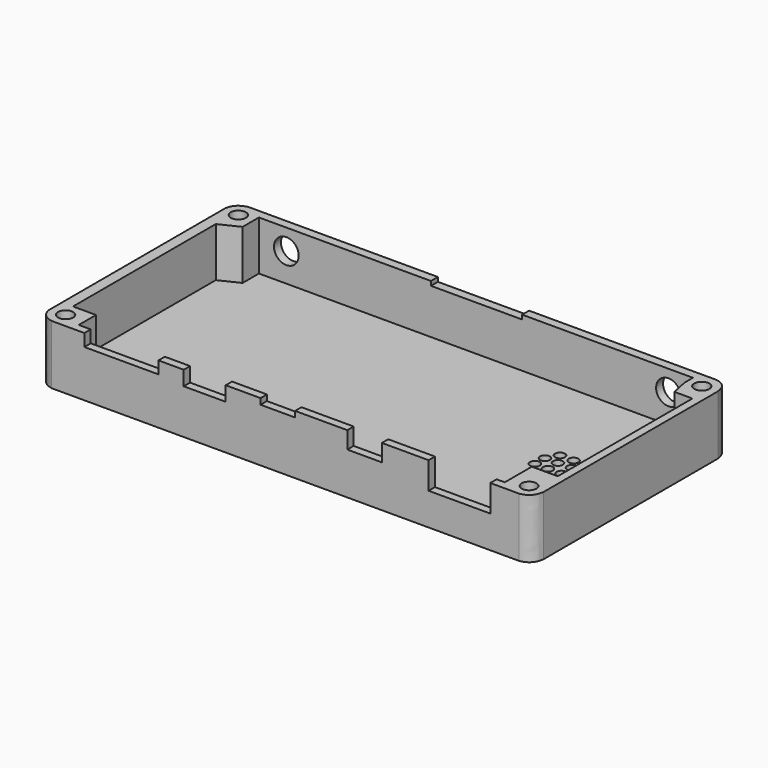
from build123d import *

# Parameters (mm, degrees)
SKETCH008_R     = 1.539175
SKETCH008_R_2   = 1.523329
SKETCH008_R_3   = 1.533201
SKETCH008_R_4   = 1.490189
PAD006_DEPTH    = 12
POCKET002_DEPTH = 10
SKETCH010_W     = 12.5
SKETCH010_H     = 5.5
SKETCH010_W_2   = 7
SKETCH010_H_2   = 3.5
SKETCH010_H_3   = 1.2
SKETCH010_W_3   = 8.5
SKETCH010_H_4   = 3
SKETCH010_W_4   = 15
SKETCH010_H_5   = 2.5
POCKET003_DEPTH = 5
SKETCH011_R     = 2.5
SKETCH011_W     = 18.47
SKETCH011_H     = 1
POCKET004_DEPTH = 5
SKETCH012_R     = 1
POCKET005_DEPTH = 5


with BuildPart() as part:
    # Sketch008 → Pad006 (new body)
    with BuildSketch(Plane.XY):
        with BuildLine():
            add(Edge.make_bspline(
                [(49.8242, 22.201212), (49.508362, 24.731634), (47.160099, 25.0727)],
                knots=[0, 0, 0, 1, 1, 1], degree=2))
            Line((47.160099, 25.0727), (-47.5558, 25.0727))
            add(Edge.make_bspline(
                [(-47.5558, 25.0727), (-49.764992, 24.657032), (-50.191277, 22.540522)],
                knots=[0, 0, 0, 1, 1, 1], degree=2))
            Line((-50.191277, 22.540522), (-50.191277, -22.264349))
            add(Edge.make_bspline(
                [(-50.191277, -22.264349), (-49.80262, -24.340702), (-47.5557, -24.8503)],
                knots=[0, 0, 0, 1, 1, 1], degree=2))
            Line((-47.5557, -24.8503), (47.181141, -24.8503))
            add(Edge.make_bspline(
                [(47.181141, -24.8503), (49.487186, -24.462395), (49.8242, -22.0108)],
                knots=[0, 0, 0, 1, 1, 1], degree=2))
            Line((49.8242, -22.0108), (49.8242, 22.201212))
        make_face()
        with Locations((-47.115311, 21.916405)):
            Circle(SKETCH008_R, mode=Mode.SUBTRACT)
        with Locations((46.738178, 21.927752)):
            Circle(SKETCH008_R_2, mode=Mode.SUBTRACT)
        with Locations((-47.112675, -21.823126)):
            Circle(SKETCH008_R_3, mode=Mode.SUBTRACT)
        with Locations((46.75103, -21.816845)):
            Circle(SKETCH008_R_4, mode=Mode.SUBTRACT)
    extrude(amount=PAD006_DEPTH)

    # Sketch009 (on Face14 of Pad006) → Pocket002 (cut)
    with BuildSketch(Plane.XY.offset(12)):
        Polygon((-44.059395, 23.3085), (-44.059395, 19.16888), (-47.975544, 17.274294), (-47.975544, -18.868563), (-43.311943, -18.868563), (-43.311943, -23.240685), (42.964558, -23.240685), (42.964558, -16.391027), (48.211094, -16.391027), (48.211094, 17.711506), (44.567665, 17.711506), (43.838982, 21.209202), (43.838982, 23.3085), align=None)
    extrude(amount=-POCKET002_DEPTH, mode=Mode.SUBTRACT)

    # Sketch010 (on Face10 of Pocket002) → Pocket003 (cut)
    with BuildSketch(Plane.XZ.offset(24.8503)):
        with Locations((35.071653, 9.29913)):
            Rectangle(SKETCH010_W, SKETCH010_H)
        with Locations((15.86862, 10.28645)):
            Rectangle(SKETCH010_W_2, SKETCH010_H_2)
        with Locations((-1.705669, 11.417012)):
            Rectangle(SKETCH010_W_2, SKETCH010_H_3)
        with Locations((-16.516187, 10.547991)):
            Rectangle(SKETCH010_W_3, SKETCH010_H_4)
        with Locations((-33.384749, 10.757572)):
            Rectangle(SKETCH010_W_4, SKETCH010_H_5)
    extrude(amount=-POCKET003_DEPTH, mode=Mode.SUBTRACT)

    # Sketch011 (on Face23 of Pocket003) → Pocket004 (cut)
    with BuildSketch(Plane.XZ.offset(-23.3085)):
        with Locations((-38.509063, 7.8)):
            Circle(SKETCH011_R)
        with Locations((38.877759, 7.8)):
            Circle(SKETCH011_R)
        with Locations((0.011538, 11.635367)):
            Rectangle(SKETCH011_W, SKETCH011_H)
    extrude(amount=-POCKET004_DEPTH, mode=Mode.SUBTRACT)

    # Sketch012 (on Face4 of Pocket004) → Pocket005 (cut)
    with BuildSketch(Plane(origin=(0, 0, 0), x_dir=(1, 0, 0), z_dir=(0, 0, -1))):
        with Locations((34.805111, -4.37996)):
            Circle(SKETCH012_R)
        with Locations((36.121971, 0.316835)):
            Circle(SKETCH012_R)
        with Locations((30.722851, 0.316835)):
            Circle(SKETCH012_R)
        with Locations((36.165867, -2.272987)):
            Circle(SKETCH012_R)
        with Locations((33.400463, -2.185196)):
            Circle(SKETCH012_R)
        with Locations((35.02459, 2.622291)):
            Circle(SKETCH012_R)
        with Locations((31.995813, 2.578395)):
            Circle(SKETCH012_R)
        with Locations((32.039707, -4.400955)):
            Circle(SKETCH012_R)
        with Locations((30.766747, -2.185196)):
            Circle(SKETCH012_R)
        with Locations((33.400463, 0.36073)):
            Circle(SKETCH012_R)
    extrude(amount=-POCKET005_DEPTH, mode=Mode.SUBTRACT)


with BuildPart() as part_1:
    # Body003 placement: moved
    add(part.part.moved(Location((0, 0, -13))))


solid = part_1.part
